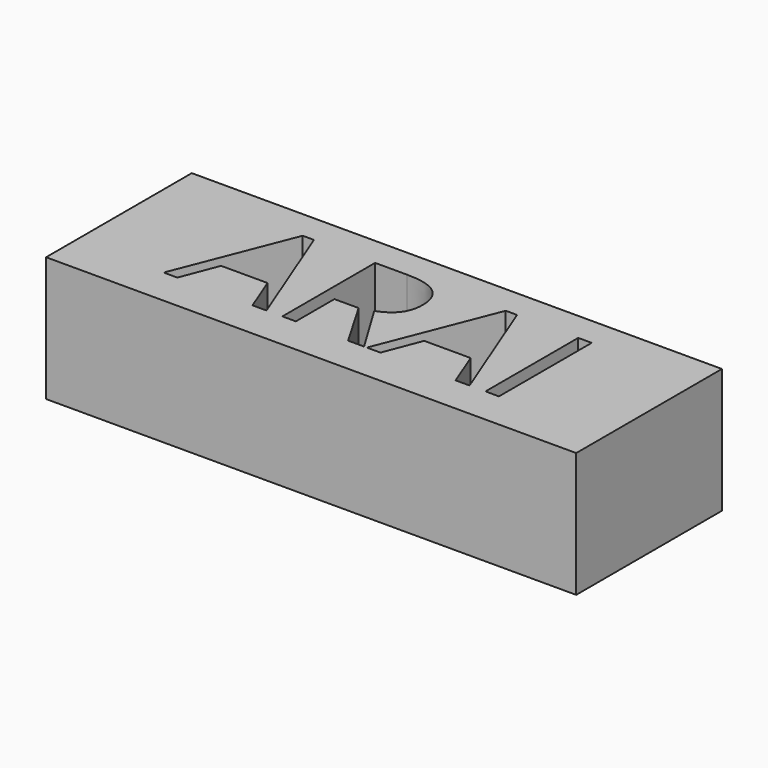
from build123d import *

# Parameters (mm, degrees)
F0_W     = 107.8475788236
F0_H     = 37.0553210378
F0_W_2   = 2.7404779285
F0_H_2   = 23.5804965256
F1_DEPTH = 25.4


with BuildPart() as f1:
    # F0 (on Top) → F1 (new body)
    with BuildSketch(Plane.XY):
        Rectangle(F0_W, F0_H)
        Polygon((-15.1394193599, -10.96911286), (-17.9779558206, -10.96911286), (-20.9145508137, -3.4702156283), (-30.3642967402, -3.4702156283), (-33.2647649056, -10.96911286), (-36.0413696617, -10.96911286), (-26.7206481197, 12.7094421979), (-24.4136921234, 12.7094421979), align=None, mode=Mode.SUBTRACT)
        with BuildLine():
            Line((-4.2342783753, -1.163259632), (-9.1578488908, -1.163259632))
            Line((-9.1578488908, -1.163259632), (-9.1578488908, -10.96911286))
            Line((-9.1578488908, -10.96911286), (-11.8983268193, -10.96911286))
            Line((-11.8983268193, -10.96911286), (-11.8983268193, 12.6113836656))
            Line((-11.8983268193, 12.6113836656), (-5.4316246642, 12.6113836656))
            add(Edge.make_bspline(
                [(-5.4316246642, 12.6113836656), (-1.091244367, 12.6113836656), (0.9808872494, 10.9495495922)],
                knots=[0, 0, 0, 1, 1, 1], degree=2))
            add(Edge.make_bspline(
                [(0.9808872494, 10.9495495922), (3.0530188657, 9.2877155188), (3.0530188657, 5.9485644459)],
                knots=[0, 0, 0, 1, 1, 1], degree=2))
            add(Edge.make_bspline(
                [(3.0530188657, 5.9485644459), (3.0530188657, 1.2727207488), (-1.6899175114, -0.3736303984)],
                knots=[0, 0, 0, 1, 1, 1], degree=2))
            Line((-1.6899175114, -0.3736303984), (4.7148529391, -10.96911286))
            Line((4.7148529391, -10.96911286), (1.4737603985, -10.96911286))
            Line((1.4737603985, -10.96911286), (-4.2342783753, -1.163259632))
        make_face(mode=Mode.SUBTRACT)
        Polygon((26.1793495576, -10.96911286), (23.3408130969, -10.96911286), (20.4042181039, -3.4702156283), (10.9544721773, -3.4702156283), (8.054004012, -10.96911286), (5.2773992558, -10.96911286), (14.5981207978, 12.7094421979), (16.9050767941, 12.7094421979), align=None, mode=Mode.SUBTRACT)
        with Locations((30.7906810625, 0.8211354028)):
            Rectangle(F0_W_2, F0_H_2, mode=Mode.SUBTRACT)
    extrude(amount=F1_DEPTH)


solid = f1.part
